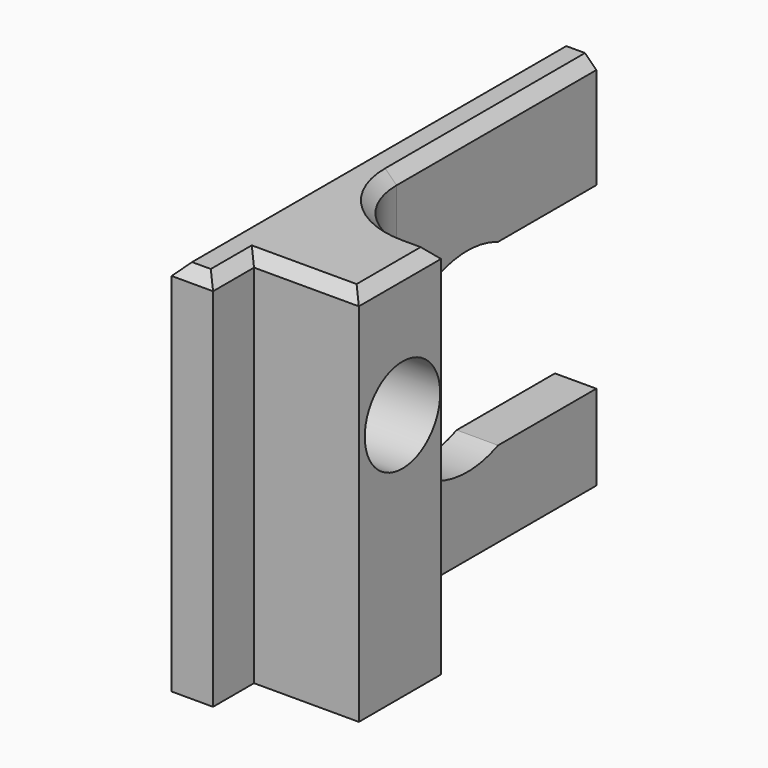
from build123d import *

# Parameters (mm, degrees)
F1_DEPTH = 25.4
F2_R     = 5.08
F3_SIZE  = 0.762
F5_DEPTH = 25.4
F7_D     = 6.35


with BuildPart() as f1:
    # F0 (on Top) → F1 (new body)
    with BuildSketch(Plane.XY):
        Polygon((35.7818603516, 26.3504646719), (35.7818603516, 48.246845603), (32.9955667257, 48.246845603), (32.9955667257, 15.984505415), (35.7818603516, 15.984505415), (35.7818603516, 19.4336399436), (42.8418815136, 19.4336399436), (42.8418815136, 26.3504646719), align=None)
    extrude(amount=F1_DEPTH)

    # F2
    f2_edges = [f1.edges().sort_by_distance(p)[0] for p in [
        (35.78186, 26.350465, 12.7),
    ]]
    fillet(f2_edges, radius=F2_R)

    # F3
    f3_edges = [f1.edges().sort_by_distance(p)[0] for p in [
        (35.78186, 39.838655, 25.4),
        (42.841882, 22.892052, 25.4),
        (39.311871, 19.43364, 25.4),
        (35.78186, 17.709073, 25.4),
        (34.388714, 15.984505, 25.4),
        (32.995567, 32.115676, 25.4),
        (37.269758, 27.838362, 25.4),
        (41.851871, 26.350465, 25.4),
    ]]
    chamfer(f3_edges, length=F3_SIZE)

    # F4 (on face) → F5 (cut)
    with BuildSketch(Plane.YZ.offset(35.7818603516)):
        with BuildLine():
            Line((48.246845603, 5.7491324842), (48.246845603, 17.8127139807))
            Line((48.246845603, 17.8127139807), (39.9765420257, 17.8127139807))
            ThreePointArc((39.9765420257, 17.8127139807), (35.0432489169, 17.9167289348), (31.4304646719, 14.5557781754))
            Line((31.4304646719, 14.5557781754), (31.4304646719, 9.0060682895))
            ThreePointArc((31.4304646719, 9.0060682895), (35.0432489169, 5.6451175301), (39.9765420257, 5.7491324842))
            Line((39.9765420257, 5.7491324842), (48.246845603, 5.7491324842))
        make_face()
    extrude(amount=-F5_DEPTH, mode=Mode.SUBTRACT)

    # F7 (through all)
    with Locations(Plane.YZ.offset(42.8418815136)):
        with Locations((23.1040623039, 16.7023018003)):
            Hole(F7_D / 2)


solid = f1.part
